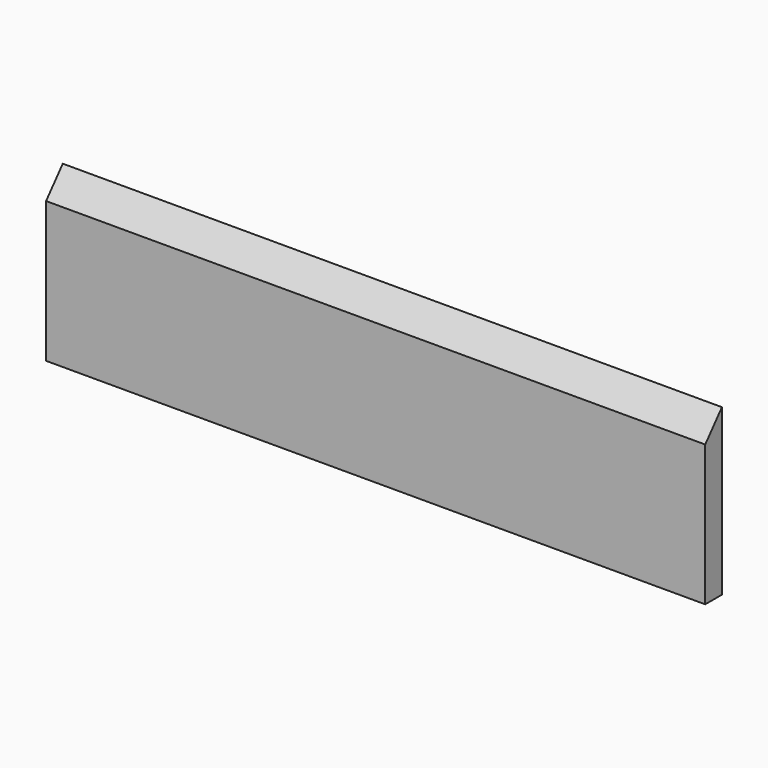
from build123d import *

# Parameters (mm, degrees)
PAD_DEPTH = 600


with BuildPart() as part:
    # Sketch → Pad (new body)
    with BuildSketch(Plane.YZ):
        Polygon((0, 0), (19, 0), (19, 150.296146), (0, 128.064188), align=None)
    extrude(amount=PAD_DEPTH)


solid = part.part
